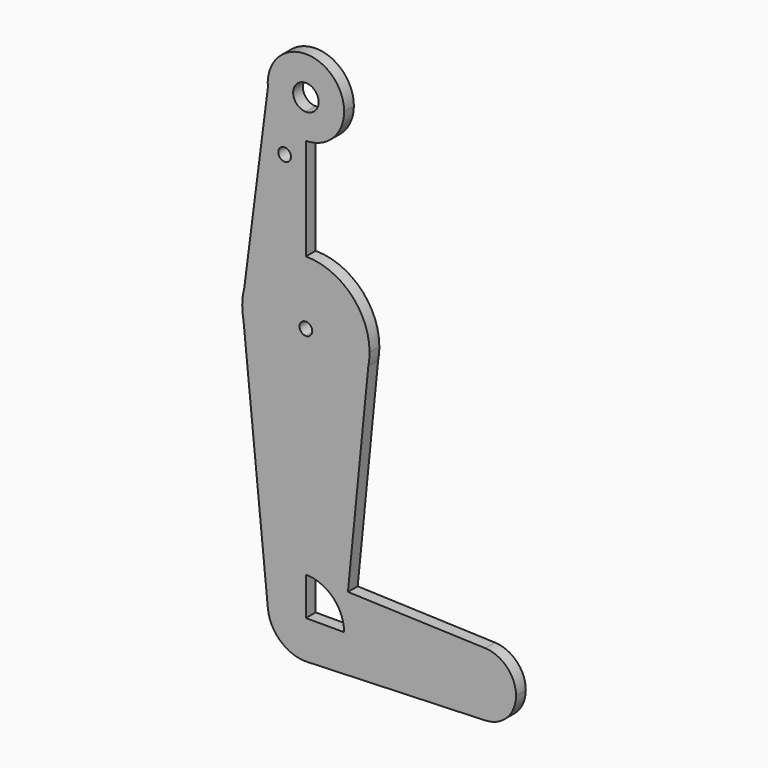
from build123d import *

# Parameters (mm, degrees)
F0_R     = 1.5875
F1_DEPTH = 3.048


with BuildPart() as f1:
    # F0 (on Front) → F1 (new body)
    with BuildSketch(Plane.XZ):
        with BuildLine():
            ThreePointArc((0, -1.5875), (-1.5875, 0), (0, 1.5875))
            Line((0, 1.5875), (0, 15.875))
            ThreePointArc((0, 15.875), (-9.705642558, 12.5624889069), (-15.3608852875, 4.0073467761))
            Line((-15.3608852875, 4.0073467761), (-15.875, 0))
            Line((-15.875, 0), (-15.5652161214, -3.1208447723))
            ThreePointArc((-15.5652161214, -3.1208447723), (-10.0616155323, -12.27923116), (0, -15.875))
            Line((0, -15.875), (0, -1.5875))
        make_face()
        with BuildLine():
            Line((0, 15.875), (0, 1.5875))
            ThreePointArc((0, 1.5875), (1.1225320151, 1.1225320151), (1.5875, 0))
            ThreePointArc((1.5875, 0), (1.1225320151, -1.1225320151), (0, -1.5875))
            Line((0, -1.5875), (0, -15.875))
            ThreePointArc((0, -15.875), (10.0616155323, -12.27923116), (15.5652161214, -3.1208447723))
            Line((15.5652161214, -3.1208447723), (15.875, 0))
            ThreePointArc((15.875, 0), (11.2253201513, 11.2253201513), (0, 15.875))
        make_face()
        with BuildLine():
            ThreePointArc((-15.3608852875, 4.0073467761), (-9.705642558, 12.5624889069), (0, 15.875))
            Line((0, 15.875), (0, 41.275))
            ThreePointArc((0, 41.275), (-6.3939027463, 43.7399976862), (-9.4784185161, 49.859145371))
            Line((-9.4784185161, 49.859145371), (-15.3608852875, 4.0073467761))
        make_face()
        with Locations((-5.3021791391, 36.5252)):
            Circle(F0_R, mode=Mode.SUBTRACT)
        with BuildLine():
            Line((0.3401993292, -73.0189227025), (44.7726271669, -71.4309405471))
            ThreePointArc((44.7726271669, -71.4309405471), (38.9525891043, -69.2255898992), (36.5125, -63.5))
            Line((36.5125, -63.5), (9.5718104076, -63.5))
            Line((9.5718104076, -63.5), (9.525, -63.5))
            ThreePointArc((9.525, -63.5), (6.854415497, -70.1138198641), (0.3401993292, -73.0189227025))
        make_face()
        with BuildLine():
            ThreePointArc((15.5652161214, -3.1208447723), (10.0616155323, -12.27923116), (0, -15.875))
            Line((0, -15.875), (0, -53.975))
            ThreePointArc((0, -53.975), (0.3388863295, -53.9810304625), (0.6773435479, -53.999114214))
            Line((0.6773435479, -53.999114214), (10.4802529787, -54.3481091322))
            Line((10.4802529787, -54.3481091322), (15.5652161214, -3.1208447723))
        make_face()
        with BuildLine():
            Line((0, -53.975), (0, -15.875))
            ThreePointArc((0, -15.875), (-10.0616155323, -12.27923116), (-15.5652161214, -3.1208447723))
            Line((-15.5652161214, -3.1208447723), (-9.4784185161, -64.440854629))
            ThreePointArc((-9.4784185161, -64.440854629), (-7.0600023138, -57.1060972537), (0, -53.975))
        make_face()
        with BuildLine():
            ThreePointArc((-9.4784185161, 49.859145371), (-6.3939027463, 43.7399976862), (0, 41.275))
            ThreePointArc((0, 41.275), (6.7351920908, 44.0648079092), (9.525, 50.8))
            ThreePointArc((9.525, 50.8), (-0.4710035211, 60.3133475014), (-9.4784185161, 49.859145371))
        make_face()
        with BuildLine():
            ThreePointArc((3.175, 50.8), (2.2450640303, 48.5549359697), (0, 47.625))
            ThreePointArc((0, 47.625), (-2.2450640303, 53.0450640303), (3.175, 50.8))
        make_face(mode=Mode.SUBTRACT)
        with BuildLine():
            ThreePointArc((15.5652161214, -3.1208447723), (15.7973641936, -1.5680910484), (15.875, 0))
            Line((15.875, 0), (15.5652161214, -3.1208447723))
        make_face()
        with BuildLine():
            Line((-15.875, 0), (-15.3608852875, 4.0073467761))
            ThreePointArc((-15.3608852875, 4.0073467761), (-15.7459467632, 2.0200954261), (-15.875, 0))
        make_face()
        with BuildLine():
            Line((0, -63.5), (0, -53.975))
            ThreePointArc((0, -53.975), (-7.0600023138, -57.1060972537), (-9.4784185161, -64.440854629))
            ThreePointArc((-9.4784185161, -64.440854629), (-6.2667835008, -70.6730781088), (0.3401993292, -73.0189227025))
            ThreePointArc((0.3401993292, -73.0189227025), (6.854415497, -70.1138198641), (9.525, -63.5))
            Line((9.525, -63.5), (0, -63.5))
        make_face()
        with BuildLine():
            ThreePointArc((-15.875, 0), (-15.7973641936, -1.5680910484), (-15.5652161214, -3.1208447723))
            Line((-15.5652161214, -3.1208447723), (-15.875, 0))
        make_face()
        with BuildLine():
            Line((10.4802529787, -54.3481091322), (0.6773435479, -53.999114214))
            ThreePointArc((0.6773435479, -53.999114214), (6.9705567315, -57.0087009117), (9.525, -63.5))
            Line((9.525, -63.5), (9.5718104076, -63.5))
            Line((9.5718104076, -63.5), (10.4802529787, -54.3481091322))
        make_face()
        with BuildLine():
            Line((44.7324052746, -55.5675253854), (10.4802529787, -54.3481091322))
            Line((10.4802529787, -54.3481091322), (9.5718104076, -63.5))
            Line((9.5718104076, -63.5), (36.5125, -63.5))
            ThreePointArc((36.5125, -63.5), (38.9380895153, -57.7883672161), (44.7324052746, -55.5675253854))
        make_face()
        with BuildLine():
            ThreePointArc((52.3875, -63.5), (50.1616327839, -57.9880895153), (44.7324052746, -55.5675253854))
            ThreePointArc((44.7324052746, -55.5675253854), (38.9380895153, -57.7883672161), (36.5125, -63.5))
            ThreePointArc((36.5125, -63.5), (38.9525891043, -69.2255898992), (44.7726271669, -71.4309405471))
            ThreePointArc((44.7726271669, -71.4309405471), (50.1755898992, -68.9974108957), (52.3875, -63.5))
        make_face()
    extrude(amount=F1_DEPTH)


solid = f1.part
